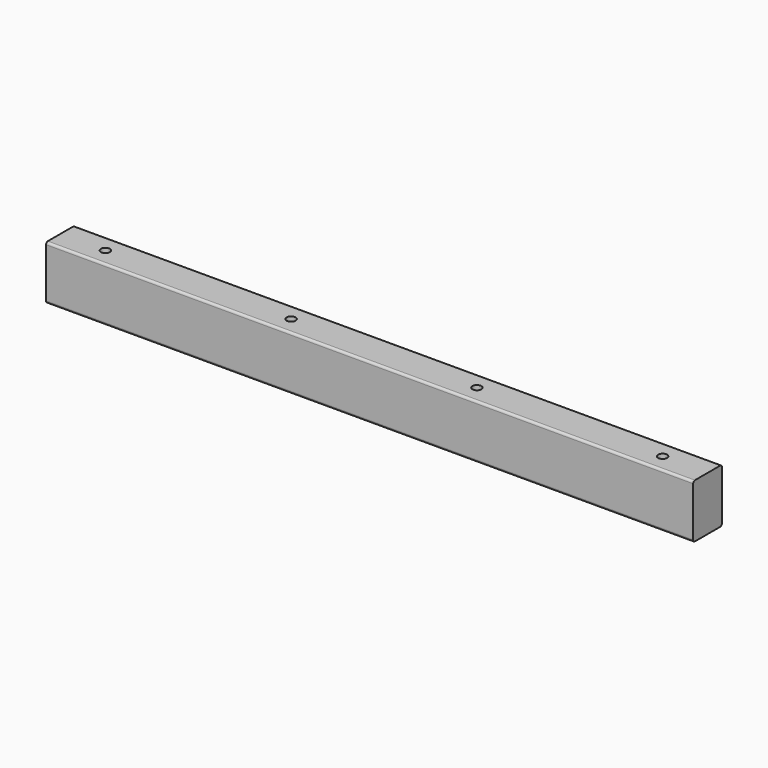
from build123d import *

# Parameters (mm, degrees)
F0_W     = 914.4
F0_H     = 76.2
F1_DEPTH = 50.8
F2_R     = 6.35
F3_DEPTH = 47.625
F5_DEPTH = 25.4
F7_DEPTH = 914.401


with BuildPart() as f1:
    # F0 (on Front) → F1 (new body)
    with BuildSketch(Plane.XZ):
        Rectangle(F0_W, F0_H)
    extrude(amount=F1_DEPTH)

    # F2 (on face) → F3 (cut)
    with BuildSketch(Plane.XY.offset(38.1)):
        with Locations((-393.7, -25.4)):
            Circle(F2_R)
        with Locations((393.7, -25.4)):
            Circle(F2_R)
        with Locations((-131.318, -25.4)):
            Circle(F2_R)
        with Locations((131.318, -25.4)):
            Circle(F2_R)
    extrude(amount=-F3_DEPTH, mode=Mode.SUBTRACT)

    # F4 (on face) → F5 (cut)
    with BuildSketch(Plane(origin=(0, 0, 0), x_dir=(-1, 0, 0), z_dir=(0, 1, 0))):
        with BuildLine():
            Line((405.930353, 9.525), (-406.4, 9.525))
            ThreePointArc((-406.4, 9.525), (-415.922103, -0.234895), (-405.930353, -9.513415))
            Line((-405.930353, -9.513415), (406.4, -9.513415))
            ThreePointArc((406.4, -9.513415), (415.922103, 0.24648), (405.930353, 9.525))
        make_face()
    extrude(amount=-F5_DEPTH, mode=Mode.SUBTRACT)

    # F6 (on face) → F7 (cut, through all)
    with BuildSketch(Plane(origin=(-457.2, 0, 0), x_dir=(0, -1, 0), z_dir=(-1, 0, 0))):
        with BuildLine():
            ThreePointArc((0, 34.925), (0.929936, 37.170064), (3.175, 38.1))
            Line((3.175, 38.1), (0, 38.1))
            Line((0, 38.1), (0, 34.925))
        make_face()
        with BuildLine():
            ThreePointArc((47.625, 38.1), (49.870064, 37.170064), (50.8, 34.925))
            Line((50.8, 34.925), (50.8, 38.1))
            Line((50.8, 38.1), (47.625, 38.1))
        make_face()
        with BuildLine():
            ThreePointArc((3.175, -38.1), (0.929936, -37.170064), (0, -34.925))
            Line((0, -34.925), (0, -38.1))
            Line((0, -38.1), (3.175, -38.1))
        make_face()
        with BuildLine():
            ThreePointArc((50.8, -34.925), (49.870064, -37.170064), (47.625, -38.1))
            Line((47.625, -38.1), (50.8, -38.1))
            Line((50.8, -38.1), (50.8, -34.925))
        make_face()
    extrude(amount=-F7_DEPTH, mode=Mode.SUBTRACT)


solid = f1.part
